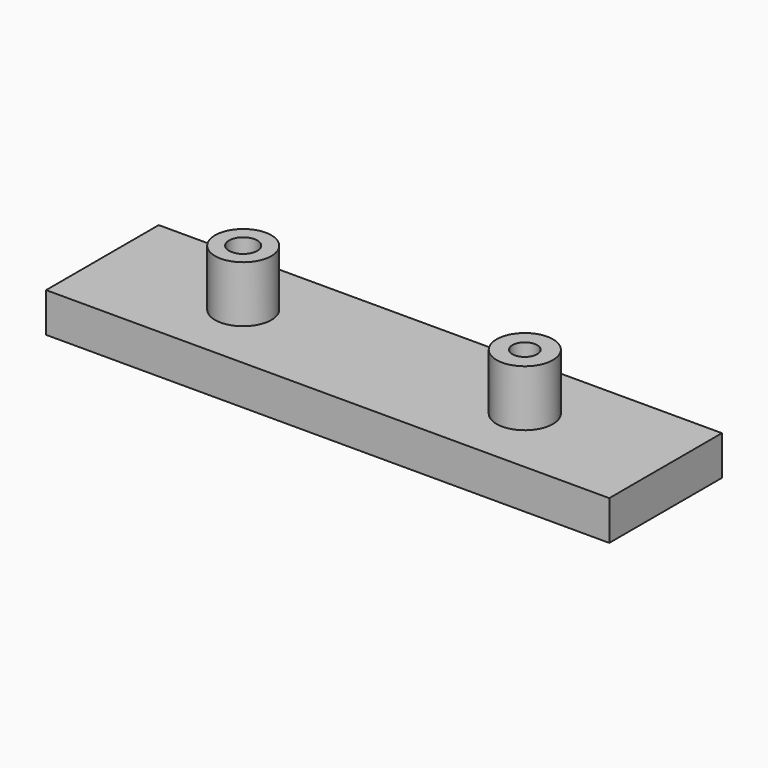
from build123d import *

# Parameters (mm, degrees)
F0_W     = 100
F0_H     = 25
F0_R     = 2.504787
F1_DEPTH = 7
F2_R     = 5
F2_R_2   = 2.504787
F2_R_3   = 2.2
F3_DEPTH = 10


with BuildPart() as f1:
    # F0 (on Top) → F1 (new body)
    with BuildSketch(Plane.XY):
        Rectangle(F0_W, F0_H)
        with Locations((-25, 0)):
            Circle(F0_R, mode=Mode.SUBTRACT)
        with BuildLine():
            ThreePointArc((27.2, 0), (25, -2.2), (22.8, 0))
            ThreePointArc((22.8, 0), (25, 2.2), (27.2, 0))
        make_face(mode=Mode.SUBTRACT)
    extrude(amount=F1_DEPTH)

    # F2 (on face) → F3 (join)
    with BuildSketch(Plane.XY.offset(7)):
        with Locations((-25, 0)):
            Circle(F2_R)
        with Locations((-25, 0)):
            Circle(F2_R_2, mode=Mode.SUBTRACT)
        with Locations((25, 0)):
            Circle(F2_R)
        with Locations((25, 0)):
            Circle(F2_R_3, mode=Mode.SUBTRACT)
    extrude(amount=F3_DEPTH)


solid = f1.part
